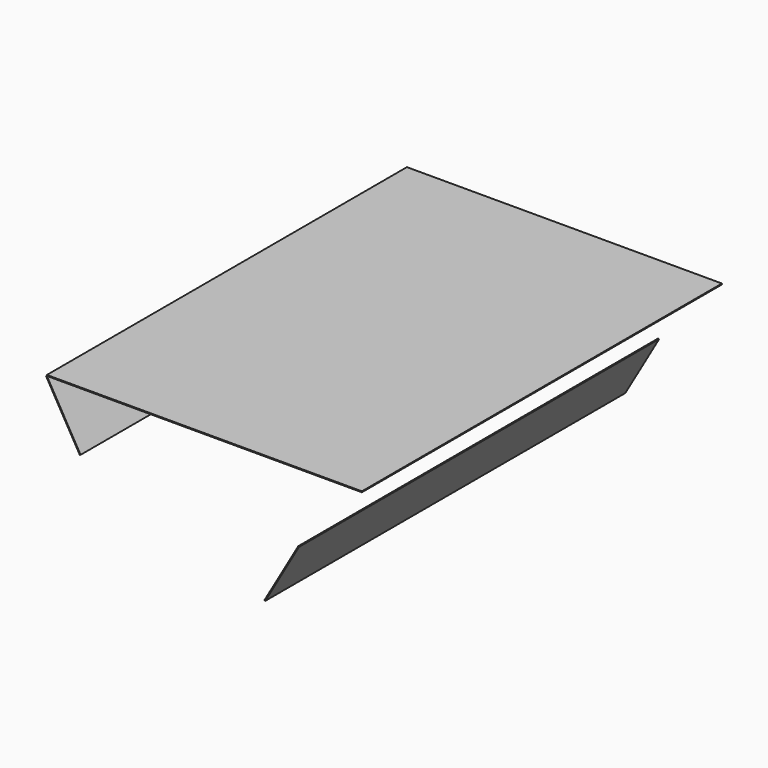
from build123d import *

# Parameters (mm, degrees)
CUBE001_W               = 1.8
CUBE001_H               = 12
CUBE001_DEPTH           = 0.024
CUBE001_PLACEMENT_ANGLE = 60
CUBE002_W               = 1.8
CUBE002_H               = 12
CUBE002_DEPTH           = 0.024
CUBE002_PLACEMENT_ANGLE = 60
CUBE_W                  = 8.4
CUBE_H                  = 12
CUBE_DEPTH              = 0.024


with BuildPart() as cube001:
    # cube001 → cube001 (new body)
    with BuildSketch(Plane.XY):
        with Locations((0.9, 6)):
            Rectangle(CUBE001_W, CUBE001_H)
    extrude(amount=CUBE001_DEPTH)


with BuildPart() as cube001_1:
    # cube001 placement: moved
    add(cube001.part.moved(Location((-0.020785, 0, -0.012))).rotate(Axis((-0.020785, 0, -0.012), (0, 1, 0)), CUBE001_PLACEMENT_ANGLE))


with BuildPart() as cube002:
    # cube002 → cube002 (new body)
    with BuildSketch(Plane.XY):
        with Locations((0.9, 6)):
            Rectangle(CUBE002_W, CUBE002_H)
    extrude(amount=CUBE002_DEPTH)


with BuildPart() as cube002_1:
    # cube002 placement: moved
    add(cube002.part.moved(Location((5.824811, 0, -3.38605))).rotate(Axis((5.824811, 0, -3.38605), (0, -1, 0)), CUBE002_PLACEMENT_ANGLE))


with BuildPart() as group:
    # cube → cube (new body)
    with BuildSketch(Plane.XY):
        with Locations((4.2, 6)):
            Rectangle(CUBE_W, CUBE_H)
    extrude(amount=CUBE_DEPTH)

    # Group: union cube001, cube002
    add(cube001_1.part)
    add(cube002_1.part)


solid = group.part
